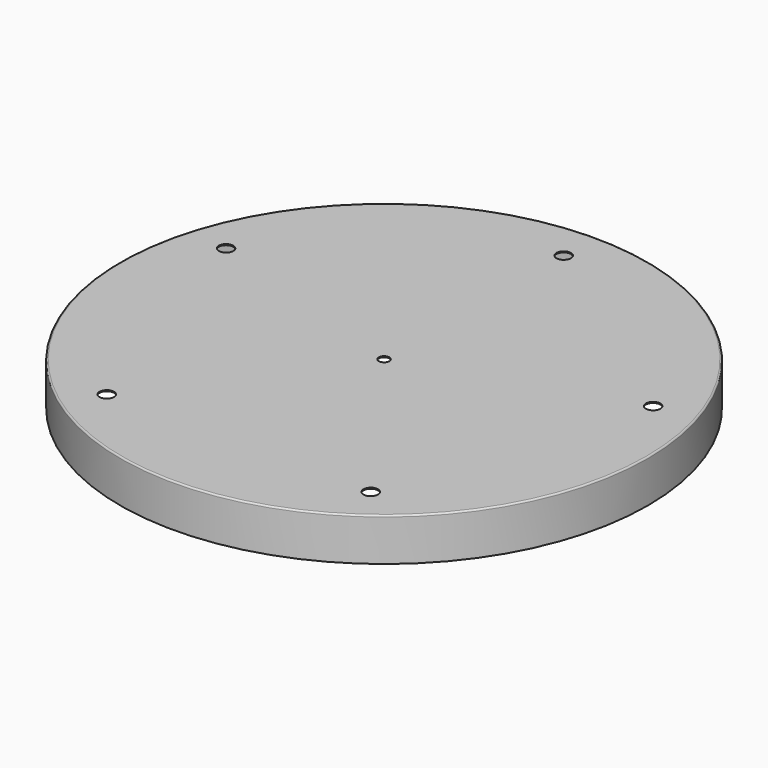
from build123d import *

# Parameters (mm, degrees)
F3_R     = 6.985
F3_R_2   = 5.08
F4_DEPTH = 1.016


with BuildPart() as f2:
    # F1 (on Front) → F2 (revolve)
    with BuildSketch(Plane.XZ):
        with BuildLine():
            Line((252.476, 0), (0, 0))
            Line((0, 0), (0, -1.016))
            Line((0, -1.016), (252.984, -1.016))
            Line((252.984, -1.016), (252.984, -41.275))
            Line((252.984, -41.275), (254, -41.275))
            Line((254, -41.275), (254, -1.524))
            ThreePointArc((254, -1.524), (253.553631, -0.446369), (252.476, 0))
        make_face()
    revolve(axis=Axis((0, 0, -44.069175), (0, 0, -1)))

    # F3 (on Top) → F4 (cut, through all)
    with BuildSketch(Plane.XY):
        with Locations((205.490317, 66.767851)):
            Circle(F3_R)
        with Locations((0, 216.065305)):
            Circle(F3_R)
        with Locations((-205.490317, 66.767851)):
            Circle(F3_R)
        with Locations((-127, -174.800504)):
            Circle(F3_R)
        with Locations((127, -174.800504)):
            Circle(F3_R)
        Circle(F3_R_2)
    extrude(amount=-F4_DEPTH, mode=Mode.SUBTRACT)


solid = f2.part
